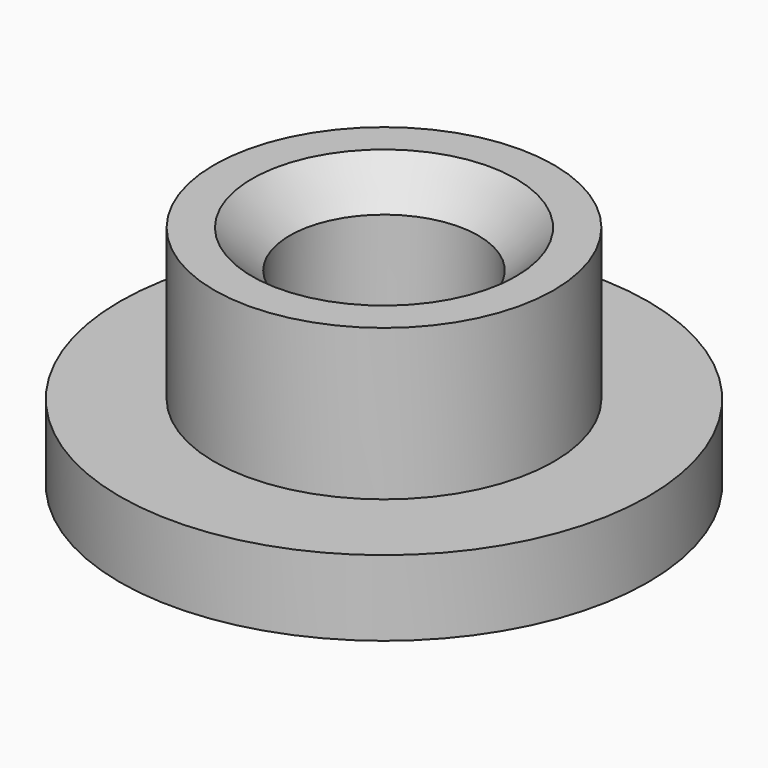
from build123d import *

# Parameters (mm, degrees)
F0_R     = 2.25
F0_R_2   = 1.25
F1_DEPTH = 2
F2_SIZE  = 0.5
F3_R     = 3.5
F3_R_2   = 1.25
F4_DEPTH = 1


with BuildPart() as f1:
    # F0 (on Top) → F1 (new body)
    with BuildSketch(Plane.XY):
        Circle(F0_R)
        Circle(F0_R_2, mode=Mode.SUBTRACT)
    extrude(amount=F1_DEPTH)

    # F2
    f2_edges = [f1.edges().sort_by_distance(p)[0] for p in [
        (-1.25, 0, 2),
    ]]
    chamfer(f2_edges, length=F2_SIZE)

    # F3 (on face) → F4 (join)
    with BuildSketch(Plane(origin=(0, 0, 0), x_dir=(1, 0, 0), z_dir=(0, 0, -1))):
        Circle(F3_R)
        Circle(F3_R_2, mode=Mode.SUBTRACT)
    extrude(amount=F4_DEPTH)


solid = f1.part
